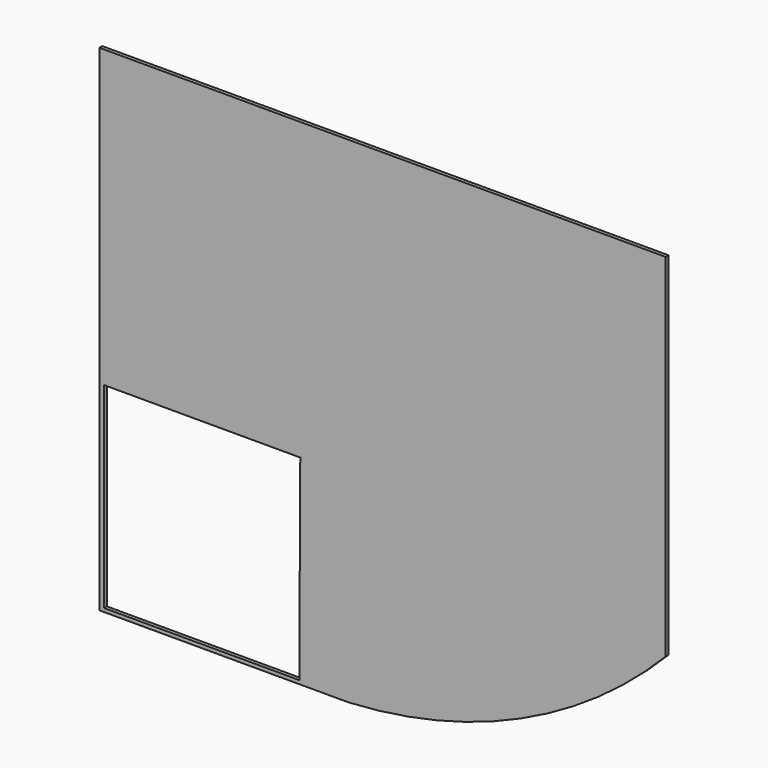
from build123d import *

# Parameters (mm, degrees)
F1_DEPTH = 2.54


with BuildPart() as f1:
    # F0 (on Front) → F1 (new body)
    with BuildSketch(Plane.XZ):
        with BuildLine():
            Line((403.098, 200.675558), (0, 200.675558))
            Line((0, 200.675558), (0, -151.876442))
            Line((0, -151.876442), (142.24, -151.876442))
            Line((142.24, -151.876442), (177.453318, -151.876442))
            ThreePointArc((177.453318, -151.876442), (299.929986, -122.086368), (403.098, -49.668528))
            Line((403.098, -49.668528), (403.098, -45.196442))
            Line((403.098, -45.196442), (403.098, 200.675558))
        make_face()
        Polygon((142.969289, -9.636442), (142.24, -149.334539), (3.269289, -149.336442), (3.269289, -9.636442), align=None, mode=Mode.SUBTRACT)
    extrude(amount=F1_DEPTH)


solid = f1.part
